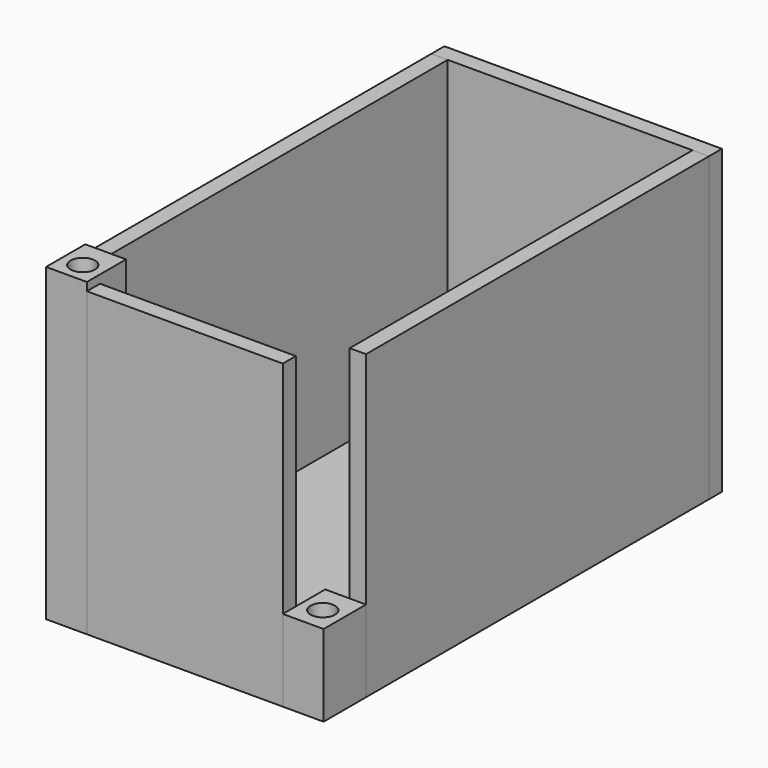
from build123d import *

# Parameters (mm, degrees)
BOX_W             = 34
BOX_H             = 61
BOX_DEPTH         = 2
BOX001_W          = 2
BOX001_H          = 55
BOX001_DEPTH      = 37
BOX002_W          = 2
BOX002_H          = 54.5
BOX002_DEPTH      = 37
BOX003_W          = 34
BOX003_H          = 2
BOX003_DEPTH      = 37
BOX004_W          = 24
BOX004_H          = 2
BOX004_DEPTH      = 37
CYLINDER001_R     = 1.5
CYLINDER001_DEPTH = 10
BOX006_W          = 5
BOX006_H          = 6.5
BOX006_DEPTH      = 10
CYLINDER_R        = 1.5
CYLINDER_DEPTH    = 38
BOX005_W          = 5
BOX005_H          = 6
BOX005_DEPTH      = 38


with BuildPart() as cube:
    # Box → Box (new body)
    with BuildSketch(Plane.XY):
        with Locations((17, 30.5)):
            Rectangle(BOX_W, BOX_H)
    extrude(amount=BOX_DEPTH)


with BuildPart() as cube001:
    # Box001 → Box001 (new body)
    with BuildSketch(Plane(origin=(0, 6, 0), x_dir=(1, 0, 0), z_dir=(0, 0, 1))):
        with Locations((1, 27.5)):
            Rectangle(BOX001_W, BOX001_H)
    extrude(amount=BOX001_DEPTH)


with BuildPart() as cube002:
    # Box002 → Box002 (new body)
    with BuildSketch(Plane(origin=(32, 6.5, 0), x_dir=(1, 0, 0), z_dir=(0, 0, 1))):
        with Locations((1, 27.25)):
            Rectangle(BOX002_W, BOX002_H)
    extrude(amount=BOX002_DEPTH)


with BuildPart() as cube003:
    # Box003 → Box003 (new body)
    with BuildSketch(Plane(origin=(0, 59, 0), x_dir=(1, 0, 0), z_dir=(0, 0, 1))):
        with Locations((17, 1)):
            Rectangle(BOX003_W, BOX003_H)
    extrude(amount=BOX003_DEPTH)


with BuildPart() as cube004:
    # Box004 → Box004 (new body)
    with BuildSketch(Plane(origin=(5, 0, 0), x_dir=(1, 0, 0), z_dir=(0, 0, 1))):
        with Locations((12, 1)):
            Rectangle(BOX004_W, BOX004_H)
    extrude(amount=BOX004_DEPTH)


with BuildPart() as cylinder001:
    # Cylinder001 → Cylinder001 (new body)
    with BuildSketch(Plane(origin=(31.5, 3, 0), x_dir=(1, 0, 0), z_dir=(0, 0, 1))):
        Circle(CYLINDER001_R)
    extrude(amount=CYLINDER001_DEPTH)


with BuildPart() as cut:
    # Box006 → Box006 (new body)
    with BuildSketch(Plane(origin=(29, 0, 0), x_dir=(1, 0, 0), z_dir=(0, 0, 1))):
        with Locations((2.5, 3.25)):
            Rectangle(BOX006_W, BOX006_H)
    extrude(amount=BOX006_DEPTH)

    # Cut: cut Cylinder001
    add(cylinder001.part, mode=Mode.SUBTRACT)


with BuildPart() as cylinder:
    # Cylinder → Cylinder (new body)
    with BuildSketch(Plane(origin=(2.5, 2.5, 0), x_dir=(1, 0, 0), z_dir=(0, 0, 1))):
        Circle(CYLINDER_R)
    extrude(amount=CYLINDER_DEPTH)


with BuildPart() as cut001:
    # Box005 → Box005 (new body)
    with BuildSketch(Plane.XY):
        with Locations((2.5, 3)):
            Rectangle(BOX005_W, BOX005_H)
    extrude(amount=BOX005_DEPTH)

    # Cut001: cut Cylinder
    add(cylinder.part, mode=Mode.SUBTRACT)


solid = Compound([cube.part, cube001.part, cube002.part, cube003.part, cube004.part, cut.part, cut001.part])
